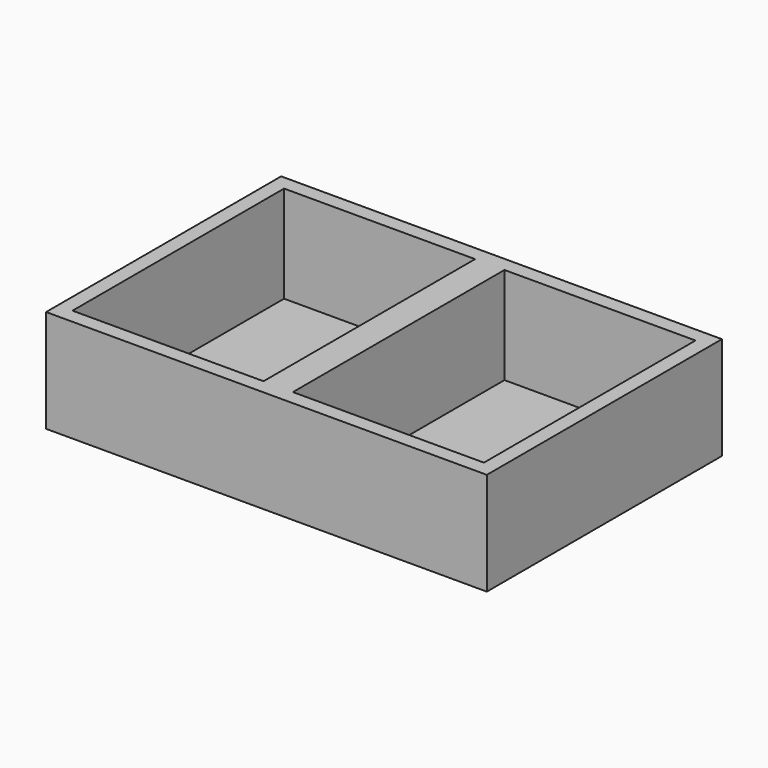
from build123d import *

# Parameters (mm, degrees)
F0_W     = 150
F0_H     = 100
F1_DEPTH = 35
F2_W     = 65
F2_H     = 90
F3_DEPTH = 33


with BuildPart() as f1:
    # F0 (on Top) → F1 (new body)
    with BuildSketch(Plane.XY):
        Rectangle(F0_W, F0_H)
    extrude(amount=F1_DEPTH)

    # F2 (on face) → F3 (cut)
    with BuildSketch(Plane.XY.offset(35)):
        with Locations((-37.5, 0)):
            Rectangle(F2_W, F2_H)
        with Locations((37.5, 0)):
            Rectangle(F2_W, F2_H)
    extrude(amount=-F3_DEPTH, mode=Mode.SUBTRACT)


solid = f1.part
